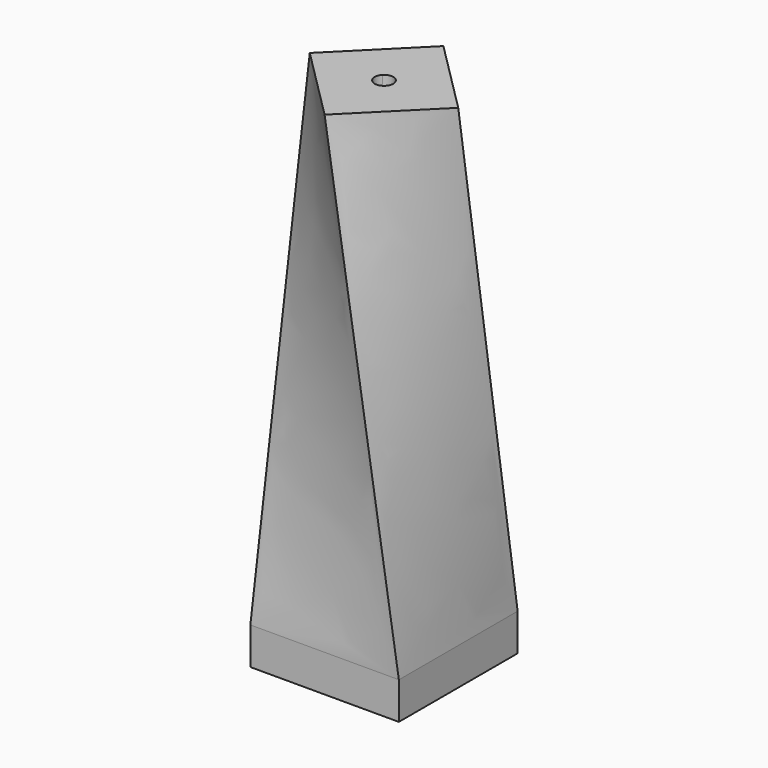
from build123d import *

# Parameters (mm, degrees)
F0_W      = 101.6
F0_H      = 25.4
F1_DEPTH  = 101.6
F1_FACE_W = 101.6
F1_FACE_H = 101.6
F6_DEPTH  = 50.8
F8_DEPTH  = 63.5


with BuildPart() as f1:
    # F0 (on Front) → F1 (new body)
    with BuildSketch(Plane.XZ):
        with Locations((-50.8, -12.7)):
            Rectangle(F0_W, F0_H)
    extrude(amount=F1_DEPTH)

    # F1_face (on face) → F4 section 0
    with BuildSketch(Plane(origin=(-50.8, -50.8, 0), x_dir=(1, 0, 0), z_dir=(0, 0, 1))):
        Rectangle(F1_FACE_W, F1_FACE_H)
    # F3 (on offset) → F4 section 1
    with BuildSketch(Plane.XY.offset(323.85)):
        Polygon((0, -50.8), (-50.8, 0), (-101.6, -50.8), (-50.8, -101.6), align=None)
    loft()

    # F5 (on face) → F6 (cut)
    with BuildSketch(Plane.XY.offset(323.85)):
        with BuildLine():
            ThreePointArc((-46.3098719395, -46.3098719395), (-50.8, -44.45), (-55.2901280605, -46.3098719395))
            Line((-55.2901280605, -46.3098719395), (-50.8, -50.8))
            Line((-50.8, -50.8), (-46.3098719395, -46.3098719395))
        make_face()
        with BuildLine():
            Line((-50.8, -50.8), (-55.2901280605, -46.3098719395))
            ThreePointArc((-55.2901280605, -46.3098719395), (-57.15, -50.8), (-55.2901280605, -55.2901280605))
            Line((-55.2901280605, -55.2901280605), (-50.8, -50.8))
        make_face()
        with BuildLine():
            Line((-46.3098719395, -55.2901280605), (-50.8, -50.8))
            Line((-50.8, -50.8), (-55.2901280605, -55.2901280605))
            ThreePointArc((-55.2901280605, -55.2901280605), (-50.8, -57.15), (-46.3098719395, -55.2901280605))
        make_face()
        with BuildLine():
            Line((-46.3098719395, -46.3098719395), (-50.8, -50.8))
            Line((-50.8, -50.8), (-46.3098719395, -55.2901280605))
            ThreePointArc((-46.3098719395, -55.2901280605), (-44.9333649686, -53.2300397955), (-44.45, -50.8))
            ThreePointArc((-44.45, -50.8), (-44.9333649686, -48.3699602045), (-46.3098719395, -46.3098719395))
        make_face()
    extrude(amount=-F6_DEPTH, mode=Mode.SUBTRACT)

    # F7 (on face) → F8 (cut)
    with BuildSketch(Plane(origin=(0, 0, -25.4), x_dir=(1, 0, 0), z_dir=(0, 0, -1))):
        with BuildLine():
            ThreePointArc((-41.275, 50.8), (-44.0648079092, 57.5351920908), (-50.8, 60.325))
            Line((-50.8, 60.325), (-50.8, 41.275))
            ThreePointArc((-50.8, 41.275), (-44.0648079092, 44.0648079092), (-41.275, 50.8))
        make_face()
        with BuildLine():
            Line((-50.8, 41.275), (-50.8, 60.325))
            ThreePointArc((-50.8, 60.325), (-60.325, 50.8), (-50.8, 41.275))
        make_face()
    extrude(amount=-F8_DEPTH, mode=Mode.SUBTRACT)


solid = f1.part
